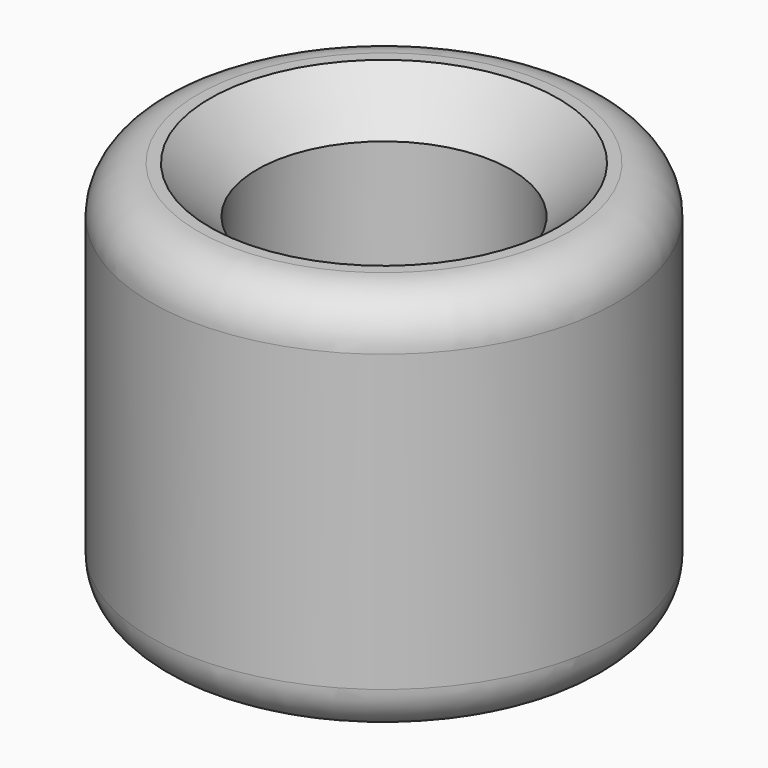
from build123d import *

# Parameters (mm, degrees)
F0_R     = 25.077837
F0_R_2   = 13.665019
F1_DEPTH = 41.91
F2_SIZE  = 5.08
F3_R     = 5.08


with BuildPart() as f1:
    # F0 (on Top) → F1 (new body)
    with BuildSketch(Plane.XY):
        Circle(F0_R)
        Circle(F0_R_2, mode=Mode.SUBTRACT)
    extrude(amount=F1_DEPTH)

    # F2
    f2_edges = [f1.edges().sort_by_distance(p)[0] for p in [
        (-13.665019, 0, 41.91),
    ]]
    chamfer(f2_edges, length=F2_SIZE)

    # F3
    f3_edges = [f1.edges().sort_by_distance(p)[0] for p in [
        (-25.077837, 0, 41.91),
        (-25.077837, 0, 0),
    ]]
    fillet(f3_edges, radius=F3_R)


solid = f1.part
